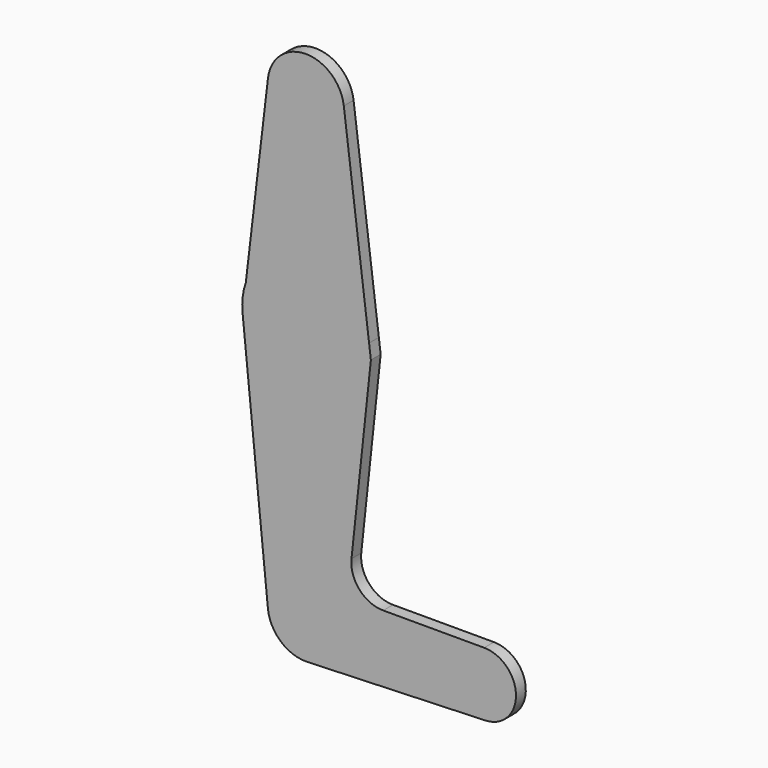
from build123d import *

# Parameters (mm, degrees)
F1_DEPTH = 3.048


with BuildPart() as f1:
    # F0 (on Front) → F1 (new body)
    with BuildSketch(Plane.XZ):
        with BuildLine():
            Line((9.525, 0), (0, 0))
            Line((0, 0), (0, 9.525))
            ThreePointArc((0, 9.525), (-7.063929059, 6.3895642457), (-9.4772553384, -0.9525))
            ThreePointArc((-9.4772553384, -0.9525), (-6.3895642457, -7.063929059), (0, -9.525))
            Line((0, -9.525), (0.6773435479, -9.500885786))
            ThreePointArc((0.6773435479, -9.500885786), (6.9705567315, -6.4912990883), (9.525, 0))
        make_face()
        with BuildLine():
            ThreePointArc((-9.4772553384, -0.9525), (-7.063929059, 6.3895642457), (0, 9.525))
            Line((0, 9.525), (0, 47.625))
            ThreePointArc((0, 47.625), (-10.6492737428, 51.7267849017), (-15.7954255641, 61.9125))
            Line((-15.7954255641, 61.9125), (-9.4772553384, -0.9525))
        make_face()
        with BuildLine():
            Line((0, 47.625), (0, 9.525))
            ThreePointArc((0, 9.525), (6.7351920908, 6.7351920908), (9.525, 0))
            Line((9.525, 0), (36.5125, 0))
            ThreePointArc((36.5125, 0), (38.8373399243, 5.6126600757), (44.45, 7.9375))
            Line((44.45, 7.9375), (19.2739472197, 7.9375))
            ThreePointArc((19.2739472197, 7.9375), (13.3609598068, 10.5733552714), (11.3688244585, 16.7331076944))
            Line((11.3688244585, 16.7331076944), (16.2005022244, 61.9125))
            Line((16.2005022244, 61.9125), (15.7504882915, 65.4843748585))
            ThreePointArc((15.7504882915, 65.4843748585), (15.8438414948, 64.4941386655), (15.875, 63.5))
            ThreePointArc((15.875, 63.5), (11.2253201513, 52.2746798487), (0, 47.625))
        make_face()
        with BuildLine():
            Line((36.5125, 0), (9.525, 0))
            ThreePointArc((9.525, 0), (6.9705567315, -6.4912990883), (0.6773435479, -9.500885786))
            Line((0.6773435479, -9.500885786), (44.7324052746, -7.9324746146))
            ThreePointArc((44.7324052746, -7.9324746146), (38.9380895153, -5.7116327839), (36.5125, 0))
        make_face()
        with BuildLine():
            ThreePointArc((-15.7954255641, 61.9125), (-10.6492737428, 51.7267849017), (0, 47.625))
            Line((0, 47.625), (0, 79.375))
            ThreePointArc((0, 79.375), (-9.1908363712, 76.4438847259), (-14.9877324754, 68.7329246359))
            Line((-14.9877324754, 68.7329246359), (-15.7954255641, 61.9125))
        make_face()
        with BuildLine():
            Line((0, 79.375), (0, 47.625))
            ThreePointArc((0, 47.625), (11.2253201513, 52.2746798487), (15.875, 63.5))
            ThreePointArc((15.875, 63.5), (15.8438414948, 64.4941386655), (15.7504882915, 65.4843748585))
            ThreePointArc((15.7504882915, 65.4843748585), (10.5003255693, 75.4062499528), (0, 79.375))
        make_face()
        with BuildLine():
            ThreePointArc((44.45, 7.9375), (38.8373399243, 5.6126600757), (36.5125, 0))
            ThreePointArc((36.5125, 0), (38.9380895153, -5.7116327839), (44.7324052746, -7.9324746146))
            ThreePointArc((44.7324052746, -7.9324746146), (50.1616327839, -5.5119104847), (52.3875, 0))
            ThreePointArc((52.3875, 0), (50.0626600757, 5.6126600757), (44.45, 7.9375))
        make_face()
        with BuildLine():
            ThreePointArc((0, -9.525), (0.3388863295, -9.5189695375), (0.6773435479, -9.500885786))
            Line((0.6773435479, -9.500885786), (0, -9.525))
        make_face()
        with BuildLine():
            ThreePointArc((-14.9877324754, 68.7329246359), (-9.1908363712, 76.4438847259), (0, 79.375))
            Line((0, 79.375), (0, 104.775))
            ThreePointArc((0, 104.775), (-7.1202192788, 107.9732233782), (-9.4589053806, 115.4201490977))
            Line((-9.4589053806, 115.4201490977), (-14.9877324754, 68.7329246359))
        make_face()
        with BuildLine():
            Line((0, 104.775), (0, 79.375))
            ThreePointArc((0, 79.375), (10.5003255693, 75.4062499528), (15.7504882915, 65.4843748585))
            Line((15.7504882915, 65.4843748585), (9.4502929642, 115.490625))
            ThreePointArc((9.4502929642, 115.490625), (9.5063048942, 114.896483242), (9.525, 114.3))
            ThreePointArc((9.525, 114.3), (6.7351920908, 107.5648079092), (0, 104.775))
        make_face()
        with BuildLine():
            ThreePointArc((-14.9877324754, 68.7329246359), (-15.764842301, 65.3669151629), (-15.7954255641, 61.9125))
            Line((-15.7954255641, 61.9125), (-14.9877324754, 68.7329246359))
        make_face()
        with BuildLine():
            ThreePointArc((-9.4589053806, 115.4201490977), (-7.1202192788, 107.9732233782), (0, 104.775))
            ThreePointArc((0, 104.775), (6.7351920908, 107.5648079092), (9.525, 114.3))
            ThreePointArc((9.525, 114.3), (9.5063048942, 114.896483242), (9.4502929642, 115.490625))
            ThreePointArc((9.4502929642, 115.490625), (-0.0355000934, 123.8249338446), (-9.4589053806, 115.4201490977))
        make_face()
        with BuildLine():
            Line((0, 9.525), (0, 0))
            Line((0, 0), (9.525, 0))
            ThreePointArc((9.525, 0), (6.7351920908, 6.7351920908), (0, 9.525))
        make_face()
    extrude(amount=F1_DEPTH)


solid = f1.part
